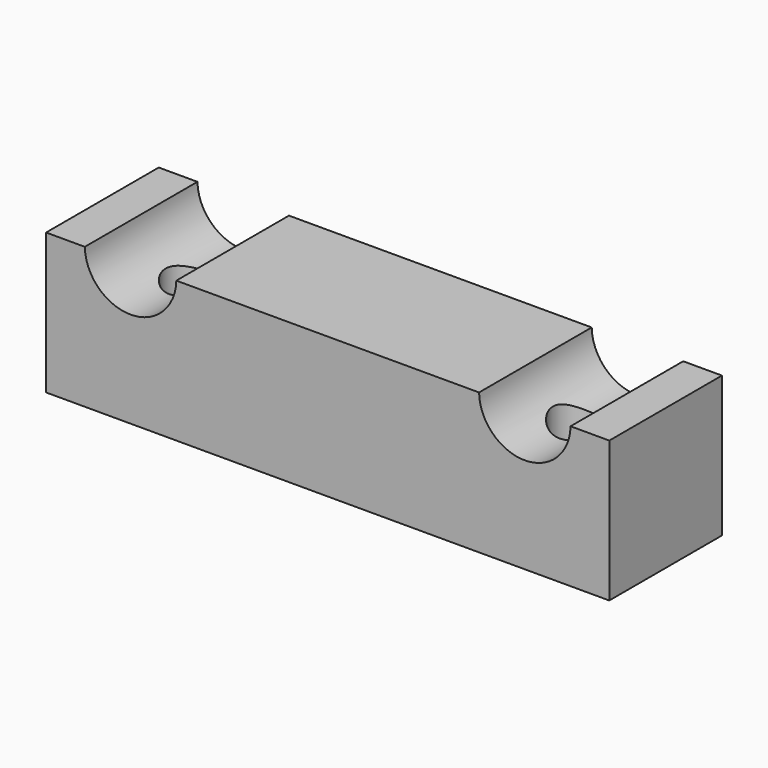
from build123d import *

# Parameters (mm, degrees)
F0_W     = 80
F0_H     = 20
F2_DEPTH = 10
F1_R     = 6.5
F3_DEPTH = 10
F4_R     = 3.5
F5_DEPTH = 20


with BuildPart() as f2:
    # F0 (on Front) → F2 (new body, symmetric)
    with BuildSketch(Plane.XZ):
        Rectangle(F0_W, F0_H)
    extrude(amount=F2_DEPTH, both=True)

    # F1 (on Front) → F3 (cut, symmetric)
    with BuildSketch(Plane.XZ):
        with Locations((-28.001357, 10.137838)):
            Circle(F1_R)
        with Locations((28.001095, 10.123801)):
            Circle(F1_R)
    extrude(amount=F3_DEPTH, both=True, mode=Mode.SUBTRACT)

    # F4 (on Top) → F5 (cut, symmetric)
    with BuildSketch(Plane.XY):
        with Locations((-27.499896, 0)):
            Circle(F4_R)
        with Locations((27.499916, 0)):
            Circle(F4_R)
    extrude(amount=F5_DEPTH, both=True, mode=Mode.SUBTRACT)


solid = f2.part
